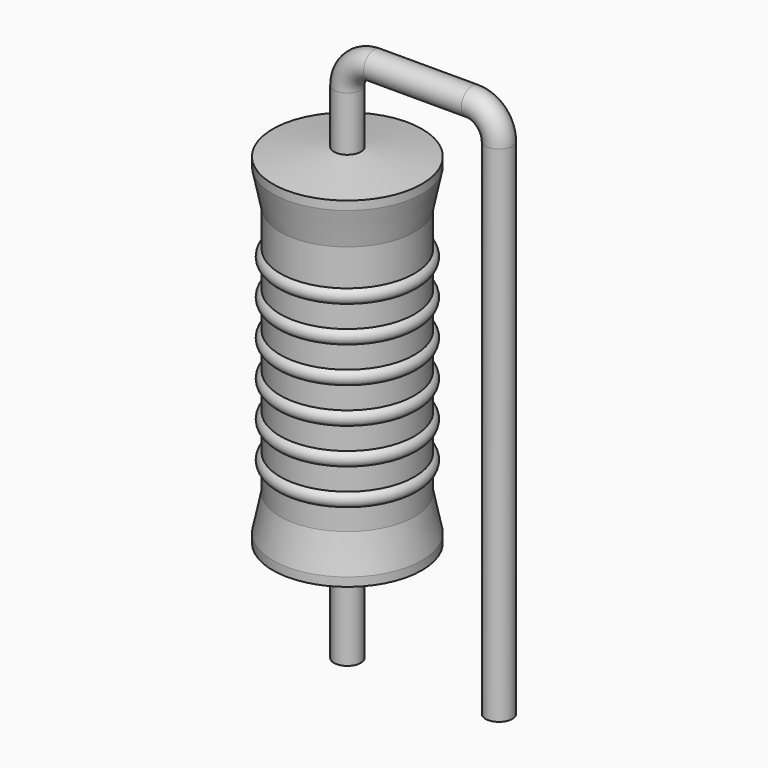
from build123d import *

# Parameters (mm, degrees)
SKETCH_R = 0.45


with BuildPart() as sweep_body:
    # Sweep: sweep along a path in Sketch001
    with BuildLine(Plane.XZ) as sweep_path:
        Line((0, -3), (0, 13.9))
        ThreePointArc((0, 13.9), (0.263601, 14.536393), (0.899991, 14.8))
        Line((0.899991, 14.8), (4.18, 14.8))
        ThreePointArc((4.18, 14.8), (4.816396, 14.536396), (5.08, 13.9))
        Line((5.08, 13.9), (5.08, -3))
    # Sketch → Sweep (sweep)
    with BuildSketch(Plane.XY.offset(-2)):
        Circle(SKETCH_R)
    sweep(path=sweep_path.line)


with BuildPart() as revolution:
    # Sketch002 → Revolution (revolve)
    with BuildSketch(Plane.XZ):
        Polygon((0, 0.1), (0, 12.1), (0.3375, 12.1), (2.5, 11.8), (2.5, 11.5075), (2.25, 10.3), (2.25, 1.9), (2.5, 0.6925), (2.5, 0.4), (0.3375, 0.1), align=None)
    revolve(axis=Axis((0, 0, 0), (0, 0, 1)))


with BuildPart() as revolution001:
    # Sketch003 → Revolution001 (revolve)
    with BuildSketch(Plane.XZ):
        with BuildLine():
            Line((2, 9.8), (2, 1.9))
            Line((2, 1.9), (2.15, 1.9))
            Line((2.15, 1.9), (2.15, 2.6))
            ThreePointArc((2.15, 2.6), (2.4, 2.85), (2.15, 3.1))
            Line((2.15, 3.1), (2.15, 3.8))
            ThreePointArc((2.15, 3.8), (2.4, 4.05), (2.15, 4.3))
            Line((2.15, 4.3), (2.15, 5))
            ThreePointArc((2.15, 5), (2.4, 5.25), (2.15, 5.5))
            Line((2.15, 5.5), (2.15, 6.2))
            ThreePointArc((2.15, 6.2), (2.4, 6.45), (2.15, 6.7))
            Line((2.15, 6.7), (2.15, 7.4))
            ThreePointArc((2.15, 7.4), (2.4, 7.65), (2.15, 7.9))
            Line((2.15, 7.9), (2.15, 8.6))
            ThreePointArc((2.15, 8.6), (2.4, 8.85), (2.15, 9.1))
            Line((2.15, 9.8), (2.15, 9.1))
            Line((2, 9.8), (2.15, 9.8))
        make_face()
    revolve(axis=Axis((0, 0, 0), (0, 0, 1)))


solid = Compound([sweep_body.part, revolution.part, revolution001.part])
